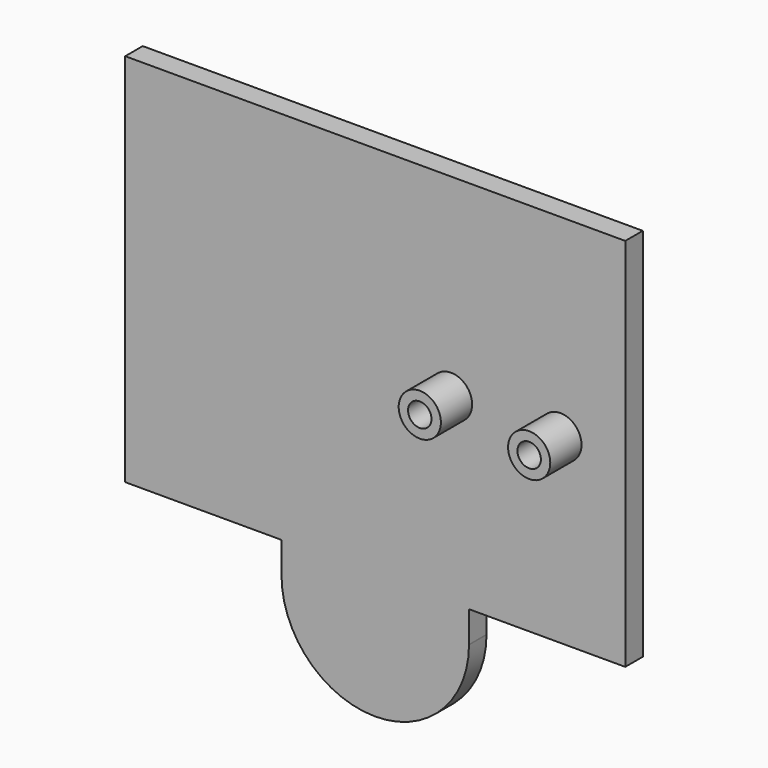
from build123d import *

# Parameters (mm, degrees)
F0_R     = 2.7
F0_R_2   = 1.5
F1_DEPTH = 5
F2_DEPTH = 2.8


with BuildPart() as f1:
    # F0 (on Front) → F1 (new body)
    with BuildSketch(Plane.XZ):
        with Locations((23.7, -0.8)):
            Circle(F0_R)
        with Locations((23.7, -0.8)):
            Circle(F0_R_2, mode=Mode.SUBTRACT)
    extrude(amount=F1_DEPTH)



with BuildPart() as f1b:
    # F0 (on Front) → F1, piece 2 (new body)
    with BuildSketch(Plane.XZ):
        with Locations((9.7, -0.8)):
            Circle(F0_R)
        with Locations((9.7, -0.8)):
            Circle(F0_R_2, mode=Mode.SUBTRACT)
    extrude(amount=F1_DEPTH)


with BuildPart() as f1_1:
    add(f1.part)

    add(f1b.part)  # F2 merges F1b
    # F0 (on Front) → F2 (join)
    with BuildSketch(Plane.XZ):
        with BuildLine():
            Line((11.9999478371, -24), (32, -24))
            Line((32, -24), (32, 24))
            Line((32, 24), (-32, 24))
            Line((-32, 24), (-32, -24))
            Line((-32, -24), (-11.9996363419, -24))
            Line((-11.9996363419, -24), (-11.9996363419, -27.906578041))
            ThreePointArc((-11.9996363419, -27.906578041), (-0.0644023145, -39.9998271797), (11.9999478371, -28.0353822933))
            ThreePointArc((11.9999478371, -28.0353822933), (12, -28), (11.9999478371, -27.9646177067))
            Line((11.9999478371, -27.9646177067), (11.9999478371, -24))
        make_face()
        with Locations((9.7, -0.8)):
            Circle(F0_R, mode=Mode.SUBTRACT)
        with Locations((23.7, -0.8)):
            Circle(F0_R, mode=Mode.SUBTRACT)
        with Locations((9.7, -0.8)):
            Circle(F0_R)
        with Locations((9.7, -0.8)):
            Circle(F0_R_2, mode=Mode.SUBTRACT)
        with Locations((9.7, -0.8)):
            Circle(F0_R_2)
        with Locations((23.7, -0.8)):
            Circle(F0_R)
        with Locations((23.7, -0.8)):
            Circle(F0_R_2, mode=Mode.SUBTRACT)
        with Locations((23.7, -0.8)):
            Circle(F0_R_2)
    extrude(amount=-F2_DEPTH)


solid = f1_1.part
